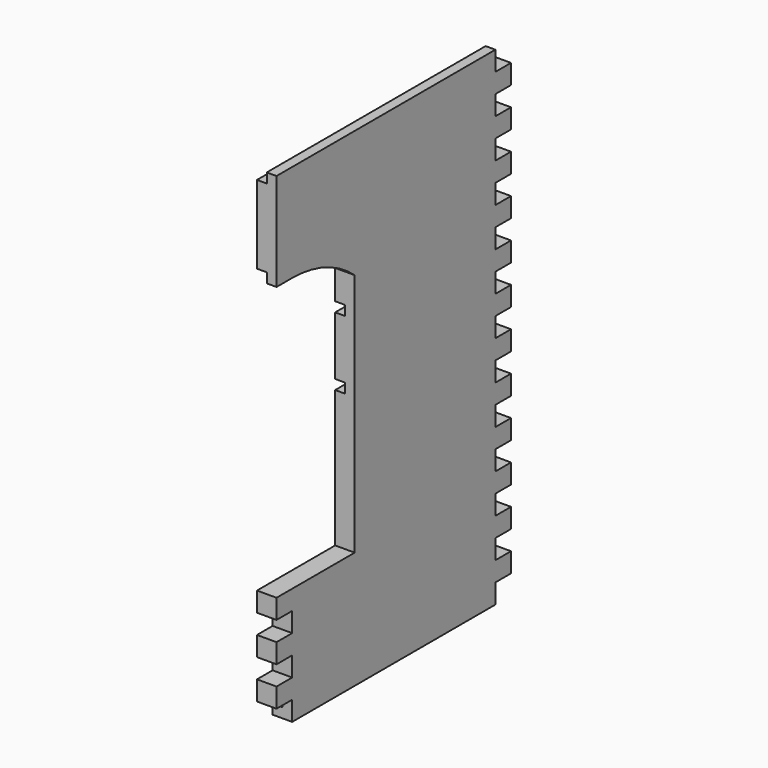
from build123d import *

# Parameters (mm, degrees)
F1_DEPTH  = 20
F3_DEPTH  = 20
F4_W      = 20
F4_H      = 20
F5_DEPTH  = 20
F6_W      = 20
F6_H      = 20
F7_DEPTH  = 20
F8_W      = 260
F8_H      = 10
F9_DEPTH  = 10
F10_W     = 300
F10_H     = 10
F10_W_2   = 280
F11_DEPTH = 10


with BuildPart() as f1:
    # F0 (on Right) → F1 (new body)
    with BuildSketch(Plane.YZ):
        Polygon((-150, -250), (150, -250), (150, 250), (-50, 250), (-50, -130), (-150, -130), align=None)
    extrude(amount=F1_DEPTH)

    # F2 (on face) → F3 (join)
    with BuildSketch(Plane.YZ.offset(20)):
        with BuildLine():
            Line((-50, 120), (-50, 250))
            Line((-50, 250), (-150, 250))
            Line((-150, 250), (-150, 150))
            Line((-150, 150), (-130, 150))
            ThreePointArc((-130, 150), (-87.279981, 142.253383), (-50, 120))
        make_face()
    extrude(amount=-F3_DEPTH)

    # F4 (on face) → F5 (cut, through all)
    with BuildSketch(Plane.YZ.offset(20)):
        with Locations((140, -200)):
            Rectangle(F4_W, F4_H)
        with Locations((140, -160)):
            Rectangle(F4_W, F4_H)
        with Locations((140, -120)):
            Rectangle(F4_W, F4_H)
        with Locations((140, -80)):
            Rectangle(F4_W, F4_H)
        with Locations((140, -40)):
            Rectangle(F4_W, F4_H)
        with Locations((140, 0)):
            Rectangle(F4_W, F4_H)
        with Locations((140, 40)):
            Rectangle(F4_W, F4_H)
        with Locations((140, 80)):
            Rectangle(F4_W, F4_H)
        with Locations((140, 120)):
            Rectangle(F4_W, F4_H)
        with Locations((140, 160)):
            Rectangle(F4_W, F4_H)
        with Locations((140, 200)):
            Rectangle(F4_W, F4_H)
        with Locations((140, 240)):
            Rectangle(F4_W, F4_H)
        with Locations((140, -240)):
            Rectangle(F4_W, F4_H)
    extrude(amount=-F5_DEPTH, mode=Mode.SUBTRACT)

    # F6 (on face) → F7 (cut, through all)
    with BuildSketch(Plane.YZ.offset(20)):
        with Locations((-140, -200)):
            Rectangle(F6_W, F6_H)
        with Locations((-140, -160)):
            Rectangle(F6_W, F6_H)
        with Locations((-140, -240)):
            Rectangle(F6_W, F6_H)
    extrude(amount=-F7_DEPTH, mode=Mode.SUBTRACT)

    # F8 (on face) → F9 (cut)
    with BuildSketch(Plane(origin=(0, 0, 0), x_dir=(0, -1, 0), z_dir=(-1, 0, 0))):
        with Locations((0, -235)):
            Rectangle(F8_W, F8_H)
    extrude(amount=-F9_DEPTH, mode=Mode.SUBTRACT)

    # F10 (on face) → F11 (cut)
    with BuildSketch(Plane(origin=(0, 0, 0), x_dir=(0, -1, 0), z_dir=(-1, 0, 0))):
        with Locations((0, 245)):
            Rectangle(F10_W, F10_H)
        with Locations((0, 155)):
            Rectangle(F10_W, F10_H)
        with Locations((0, 85)):
            Rectangle(F10_W_2, F10_H)
        with Locations((0, 15)):
            Rectangle(F10_W_2, F10_H)
    extrude(amount=-F11_DEPTH, mode=Mode.SUBTRACT)


solid = f1.part
